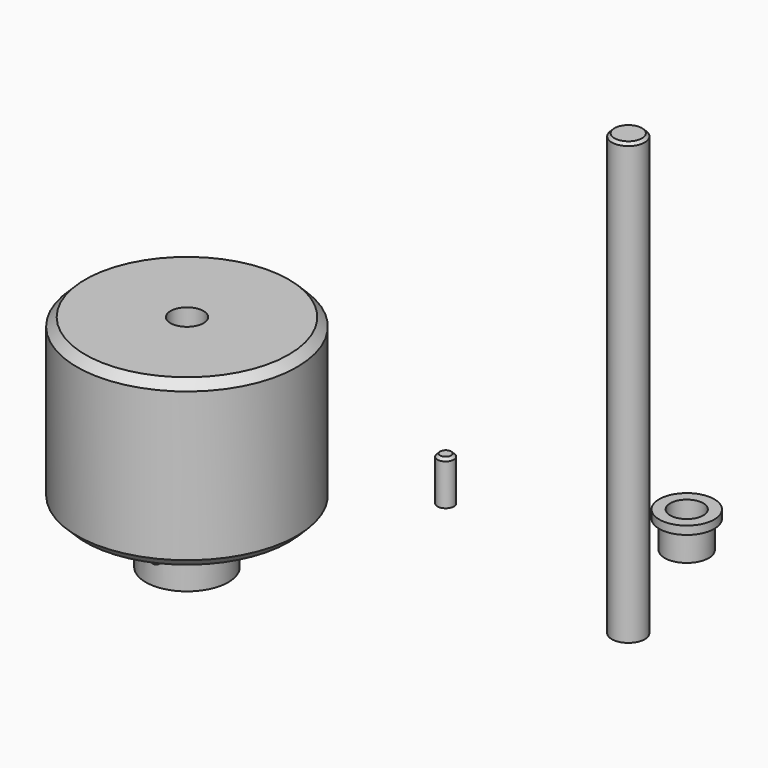
from build123d import *

# Parameters (mm, degrees)
F0_R      = 20
F0_R_2    = 7.5
F0_R_3    = 3
F1_DEPTH  = 30
F2_DEPTH  = 10
F3_SIZE   = 1.5
F4_R      = 1.5
F5_DEPTH  = 8.5000001262
F6_DEPTH  = 80
F7_SIZE   = 0.5
F0_R_4    = 4
F8_DEPTH  = 5
F0_R_5    = 5
F9_DEPTH  = 1.5
F0_R_6    = 1.5
F10_DEPTH = 8
F11_SIZE  = 0.5


with BuildPart() as f1:
    # F0 (on Top) → F1 (new body)
    with BuildSketch(Plane.XY):
        Circle(F0_R)
        Circle(F0_R_2, mode=Mode.SUBTRACT)
        Circle(F0_R_2)
        Circle(F0_R_3, mode=Mode.SUBTRACT)
    extrude(amount=F1_DEPTH)

    # F0 (on Top) → F2 (join)
    with BuildSketch(Plane.XY):
        Circle(F0_R_2)
        Circle(F0_R_3, mode=Mode.SUBTRACT)
    extrude(amount=-F2_DEPTH)

    # F3
    f3_edges = [f1.edges().sort_by_distance(p)[0] for p in [
        (-20, 0, 30),
        (-20, 0, 0),
    ]]
    chamfer(f3_edges, length=F3_SIZE)

    # F4 (on Front) → F5 (cut, up to face)
    with BuildSketch(Plane.XZ):
        with Locations((0, -5)):
            Circle(F4_R)
    extrude(amount=F5_DEPTH, mode=Mode.SUBTRACT)


with BuildPart() as f6:
    # F0 (on Top) → F6 (new body)
    with BuildSketch(Plane.XY):
        with Locations((73.6040472984, 8.2579720765)):
            Circle(F0_R_3)
    extrude(amount=F6_DEPTH)

    # F7
    f7_edges = [f6.edges().sort_by_distance(p)[0] for p in [
        (70.604047, 8.257972, 80),
    ]]
    chamfer(f7_edges, length=F7_SIZE)


with BuildPart() as f8:
    # F0 (on Top) → F8 (new body)
    with BuildSketch(Plane.XY):
        with Locations((58.1053979695, 40.9158319235)):
            Circle(F0_R_4)
        with Locations((58.1053979695, 40.9158319235)):
            Circle(F0_R_3, mode=Mode.SUBTRACT)
    extrude(amount=-F8_DEPTH)

    # F0 (on Top) → F9 (join)
    with BuildSketch(Plane.XY):
        with Locations((58.1053979695, 40.9158319235)):
            Circle(F0_R_5)
        with Locations((58.1053979695, 40.9158319235)):
            Circle(F0_R_4, mode=Mode.SUBTRACT)
        with Locations((58.1053979695, 40.9158319235)):
            Circle(F0_R_4)
        with Locations((58.1053979695, 40.9158319235)):
            Circle(F0_R_3, mode=Mode.SUBTRACT)
    extrude(amount=F9_DEPTH)


with BuildPart() as f10:
    # F0 (on Top) → F10 (new body)
    with BuildSketch(Plane.XY):
        with Locations((28.4589827061, 23.1998879462)):
            Circle(F0_R_6)
    extrude(amount=F10_DEPTH)

    # F11
    f11_edges = [f10.edges().sort_by_distance(p)[0] for p in [
        (26.958983, 23.199888, 8),
    ]]
    chamfer(f11_edges, length=F11_SIZE)


solid = Compound([f1.part, f6.part, f8.part, f10.part])
